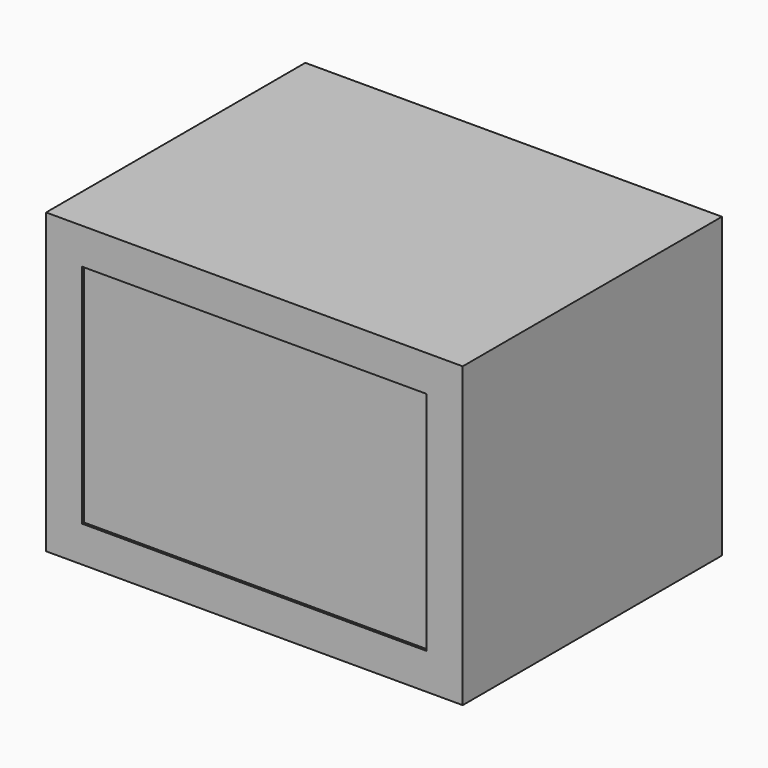
from build123d import *

# Parameters (mm, degrees)
F0_W      = 810
F0_H      = 630
F1_DEPTH  = 580
F2_W      = 670
F2_H      = 440
F3_DEPTH  = 5
F5_DEPTH  = 300
F7_DEPTH  = 600
F9_DEPTH  = 300
F10_W     = 1600
F10_H     = 80
F11_DEPTH = 700


with BuildPart() as f1:
    # F0 (on Top) → F1 (new body)
    with BuildSketch(Plane.XY):
        Rectangle(F0_W, F0_H)
    extrude(amount=F1_DEPTH)

    # F2 (on face) → F3 (cut)
    with BuildSketch(Plane.XZ.offset(315)):
        with Locations((0, 290)):
            Rectangle(F2_W, F2_H)
    extrude(amount=-F3_DEPTH, mode=Mode.SUBTRACT)


with BuildPart() as f5:
    # F4 (on face) → F5 (new body)
    with BuildSketch(Plane(origin=(0, 315, 0), x_dir=(-1, 0, 0), z_dir=(0, 1, 0))):
        Polygon((-405, 1600), (-1605, 1600), (-1605, -400), (-405, -400), (-405, 0), (-405, 580), align=None)
    extrude(amount=-F5_DEPTH)


with BuildPart() as f7:
    # F6 (on face) → F7 (new body)
    with BuildSketch(Plane(origin=(0, 315, 0), x_dir=(-1, 0, 0), z_dir=(0, 1, 0))):
        Polygon((-405, 580), (405, 580), (405, 0), (705, 0), (705, 880), (-405, 880), (-805, 880), (-805, -400), (-405, -400), (-405, 0), align=None)
    extrude(amount=-F7_DEPTH)


with BuildPart() as f9_tool:
    # F8 (on face) → F9 (new body)
    with BuildSketch(Plane(origin=(0, 315, 0), x_dir=(-1, 0, 0), z_dir=(0, 1, 0))):
        Polygon((-405, 880), (-805, 880), (-805, -400), (-405, -400), (-405, 580), align=None)
    extrude(amount=-F9_DEPTH)


with BuildPart() as f5_1:
    add(f5.part)

    # F9: cut by f9_tool
    add(f9_tool.part, mode=Mode.SUBTRACT)


with BuildPart() as f7_1:
    add(f7.part)

    # F9: cut by f9_tool
    add(f9_tool.part, mode=Mode.SUBTRACT)


with BuildPart() as f11:
    # F10 (on face) → F11 (new body)
    with BuildSketch(Plane(origin=(0, 315, 0), x_dir=(-1, 0, 0), z_dir=(0, 1, 0))):
        Polygon((-405, 0), (-405, -80), (1105, -80), (1105, 0), (405, 0), align=None)
        with Locations((-1205, -40)):
            Rectangle(F10_W, F10_H)
    extrude(amount=-F11_DEPTH)


solid = f1.part
